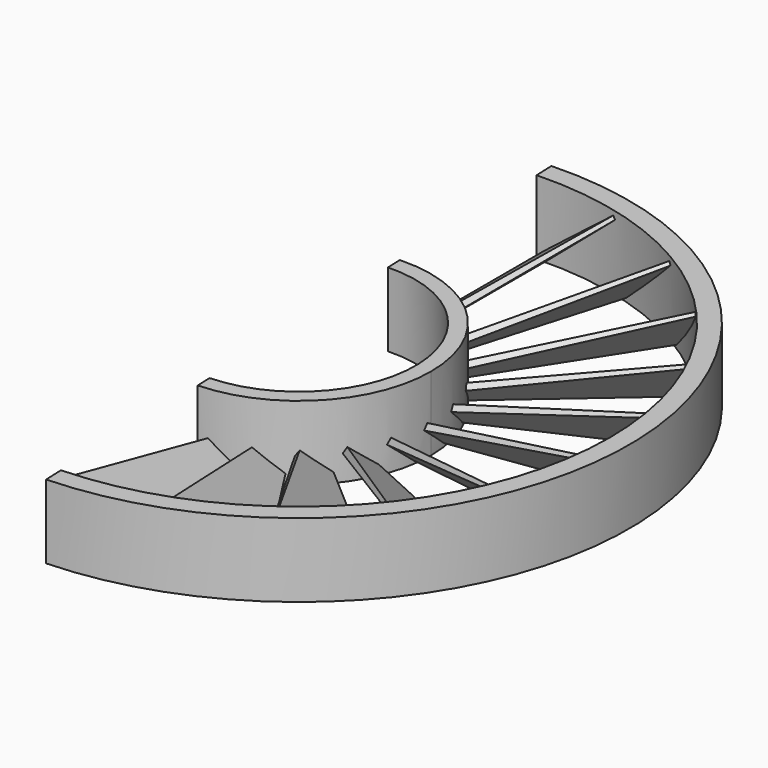
from build123d import *

# Parameters (mm, degrees)
BOX002_W                  = 500
BOX002_H                  = 500
BOX002_DEPTH              = 500
BOX002_PLACEMENT_ANGLE    = 2
TUBE021_R                 = 85
TUBE021_R_2               = 80
TUBE021_DEPTH             = 19
TUBE013_R                 = 100
TUBE013_R_2               = 80
TUBE013_DEPTH             = 200
PAD028_DEPTH              = 100
PAD029_DEPTH              = 2
COMMON012_PLACEMENT_ANGLE = 38
ARRAY012_COUNT            = 22
ARRAY012_PLACEMENT_ANGLE  = 180
TUBE022_R                 = 34
TUBE022_R_2               = 30
TUBE022_DEPTH             = 19


with BuildPart() as cube002:
    # Box002 → Box002 (new body)
    with BuildSketch(Plane.XY):
        with Locations((250, 250)):
            Rectangle(BOX002_W, BOX002_H)
    extrude(amount=BOX002_DEPTH)


with BuildPart() as cube002_1:
    # Box002 placement: moved
    add(cube002.part.moved(Location((8.73, -250, 0))).rotate(Axis((8.73, -250, 0), (0, 0, 1)), BOX002_PLACEMENT_ANGLE))


with BuildPart() as tube021:
    # Tube021 → Tube021 (new body)
    with BuildSketch(Plane.XY.offset(100.5)):
        Circle(TUBE021_R)
        Circle(TUBE021_R_2, mode=Mode.SUBTRACT)
    extrude(amount=TUBE021_DEPTH)


with BuildPart() as tube013:
    # Tube013 → Tube013 (new body)
    with BuildSketch(Plane.XY):
        Circle(TUBE013_R)
        Circle(TUBE013_R_2, mode=Mode.SUBTRACT)
    extrude(amount=TUBE013_DEPTH)


with BuildPart() as body029:
    # Sketch028 → Pad028 (new body)
    with BuildSketch(Plane.XZ):
        Polygon((0, 0), (0, 2), (26, 0.9), (26, 0), align=None)
    extrude(amount=PAD028_DEPTH)


with BuildPart() as body029_1:
    # Body029 placement: moved
    add(body029.part.moved(Location((-5, 0, 5))))


with BuildPart() as cut002:
    # Sketch029 → Pad029 (new body)
    with BuildSketch(Plane.XY):
        Polygon((0, 0), (0, -52), (25.94305, -47.924315), (8.5, 0), align=None)
    extrude(amount=PAD029_DEPTH)


with BuildPart() as cut002_1:
    # Body030 placement: moved
    add(cut002.part.moved(Location((-5, -33, 5))))

    # Common012: intersect Body029
    add(body029_1.part, mode=Mode.INTERSECT)


with BuildPart() as cut002_2:
    # Common012 placement: moved
    add(cut002_1.part.rotate(Axis((0, 0, 0), (0, 1, 0)), COMMON012_PLACEMENT_ANGLE))

    # Array012: Cut002 ×22 about axis
    array012_axis = Axis((0, 0, 0), (0, 0, 1))


with BuildPart() as cut002_3:
    add(cut002_2.part)
    for i in range(1, ARRAY012_COUNT):
        add(cut002_2.part.rotate(array012_axis, i * 360 / ARRAY012_COUNT))


with BuildPart() as cut002_4:
    # Array012 placement: moved
    add(cut002_3.part.moved(Location((0, 0, 110))).rotate(Axis((0, 0, 110), (0, 1, 0)), ARRAY012_PLACEMENT_ANGLE))

    # Cut002: cut Tube013
    add(tube013.part, mode=Mode.SUBTRACT)


with BuildPart() as stator1h1:
    # Tube022 → Tube022 (new body)
    with BuildSketch(Plane.XY.offset(100.5)):
        Circle(TUBE022_R)
        Circle(TUBE022_R_2, mode=Mode.SUBTRACT)
    extrude(amount=TUBE022_DEPTH)

    # Fusion010: union Tube021, Cut002
    add(tube021.part)
    add(cut002_4.part)

    # Common017: intersect Cube002
    add(cube002_1.part, mode=Mode.INTERSECT)


solid = stator1h1.part
